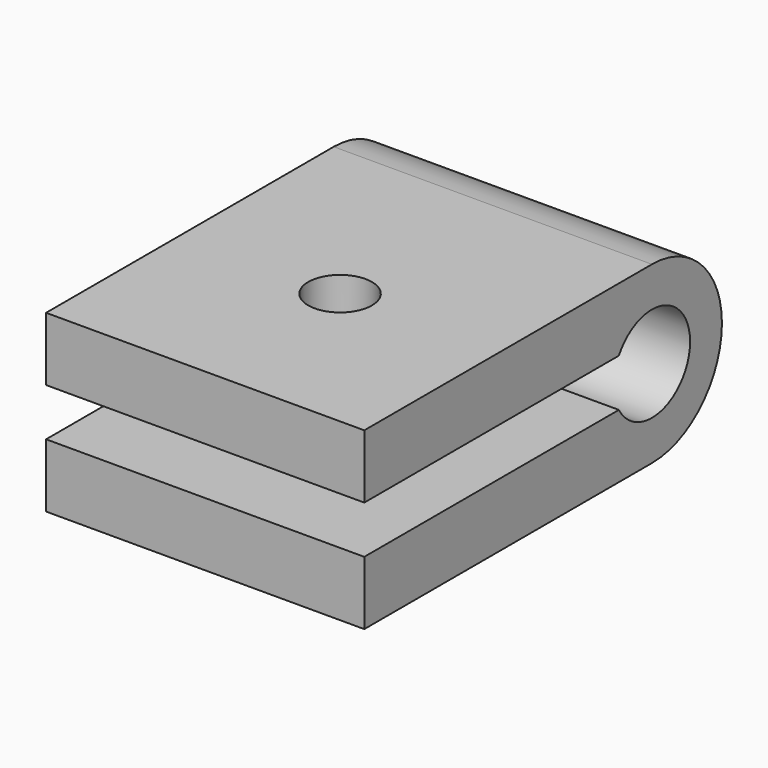
from build123d import *

# Parameters (mm, degrees)
PAD_DEPTH       = 5
SKETCH001_R     = 1.5
POCKET_DEPTH    = 2.751
SKETCH002_R     = 1
POCKET001_DEPTH = 5


with BuildPart() as part:
    # Sketch → Pad (new body, symmetric)
    with BuildSketch(Plane.YZ):
        with BuildLine():
            ThreePointArc((-1.299038, -0.75), (1.5, 0), (-1.299038, 0.75))
            Line((-11.299038, 0.75), (-1.299038, 0.75))
            Line((-11.299038, 2.75), (-11.299038, 0.75))
            Line((0, 2.75), (-11.299038, 2.75))
            ThreePointArc((1.2e-05, -2.75), (2.75, 6e-06), (0, 2.75))
            Line((-11.299038, -2.75), (1.2e-05, -2.75))
            Line((-11.299038, -2.75), (-11.299038, -0.75))
            Line((-11.299038, -0.75), (-1.299038, -0.75))
        make_face()
    extrude(amount=PAD_DEPTH, both=True)

    # Sketch001 → Pocket (cut, through all)
    with BuildSketch(Plane.XY):
        with Locations((0, -6)):
            Circle(SKETCH001_R)
    extrude(amount=-POCKET_DEPTH, mode=Mode.SUBTRACT)

    # Sketch002 → Pocket001 (cut)
    with BuildSketch(Plane.XY):
        with Locations((0, -6)):
            Circle(SKETCH002_R)
    extrude(amount=POCKET001_DEPTH, mode=Mode.SUBTRACT)


solid = part.part
